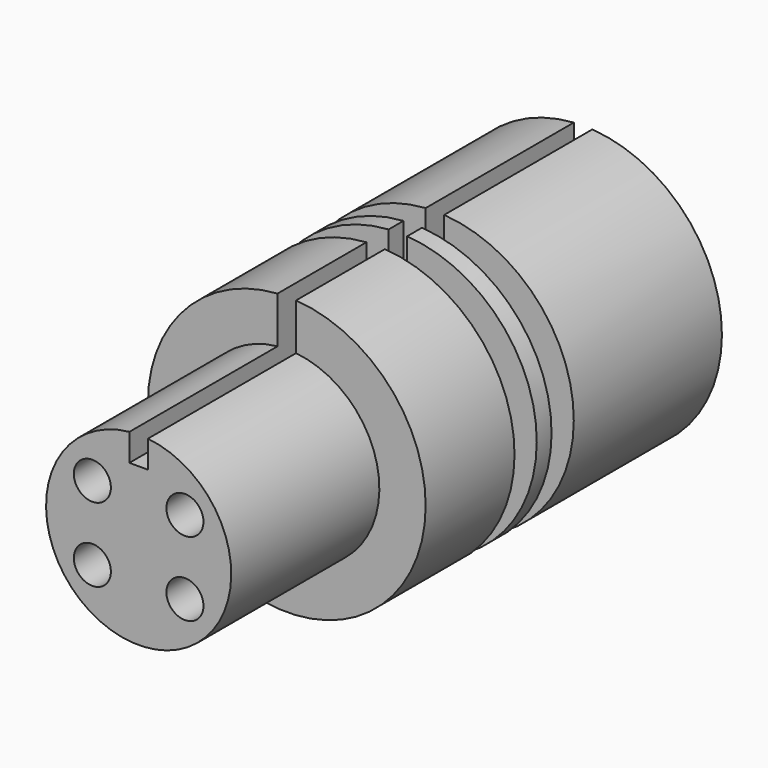
from build123d import *

# Parameters (mm, degrees)
F2_R     = 1
F3_DEPTH = 10
F4_W     = 0.5
F4_H     = 4
F5_DEPTH = 30.001


with BuildPart() as f1:
    # F0 (on Right) → F1 (revolve)
    with BuildSketch(Plane.YZ):
        Polygon((5.690518, 7.5), (-0.309482, 7.5), (-0.309482, 5), (-10.309482, 5), (-10.309482, 0), (19.690518, 0), (19.690518, 7.5), (9.690518, 7.5), (9.690518, 4.5), (8.190518, 4.5), (8.190518, 7.5), (7.190518, 7.5), (7.190518, 4.5), (5.690518, 4.5), align=None)
    revolve(axis=Axis((0, 12.775562, 0), (0, 1, 0)))

    # F2 (on face) → F3 (cut)
    with BuildSketch(Plane.XZ.offset(10.309482)):
        with Locations((-2.5, 2)):
            Circle(F2_R)
        with Locations((2.5, 2)):
            Circle(F2_R)
        with Locations((-2.5, -2)):
            Circle(F2_R)
        with Locations((2.5, -2)):
            Circle(F2_R)
    extrude(amount=-F3_DEPTH, mode=Mode.SUBTRACT)

    # F4 (on face) → F5 (cut, through all)
    with BuildSketch(Plane.XZ.offset(10.309482)):
        with Locations((-0.25, 5.5)):
            Rectangle(F4_W, F4_H)
        with Locations((0.25, 5.5)):
            Rectangle(F4_W, F4_H)
    extrude(amount=-F5_DEPTH, mode=Mode.SUBTRACT)


solid = f1.part
